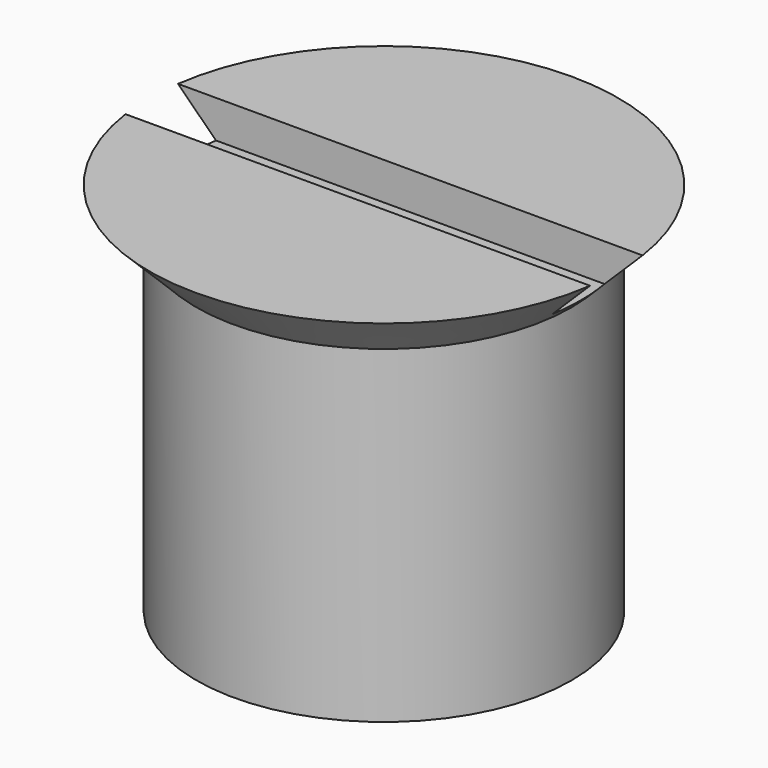
from build123d import *

# Parameters (mm, degrees)
F2_W     = 30
F2_H     = 3.5
F3_DEPTH = 2


with BuildPart() as f1:
    # F0 (on Front) → F1 (revolve)
    with BuildSketch(Plane.XZ):
        Polygon((12.5, 0), (0, 0), (0, -21), (8, -21), (8, -20), (10, -20), (10, -2.5), align=None)
    revolve(axis=Axis((0, 0, -12.648922), (0, 0, -1)))

    # F2 (on face) → F3 (cut)
    with BuildSketch(Plane.XY):
        with Locations((1.177149, 0)):
            Rectangle(F2_W, F2_H)
    extrude(amount=-F3_DEPTH, mode=Mode.SUBTRACT)


solid = f1.part
